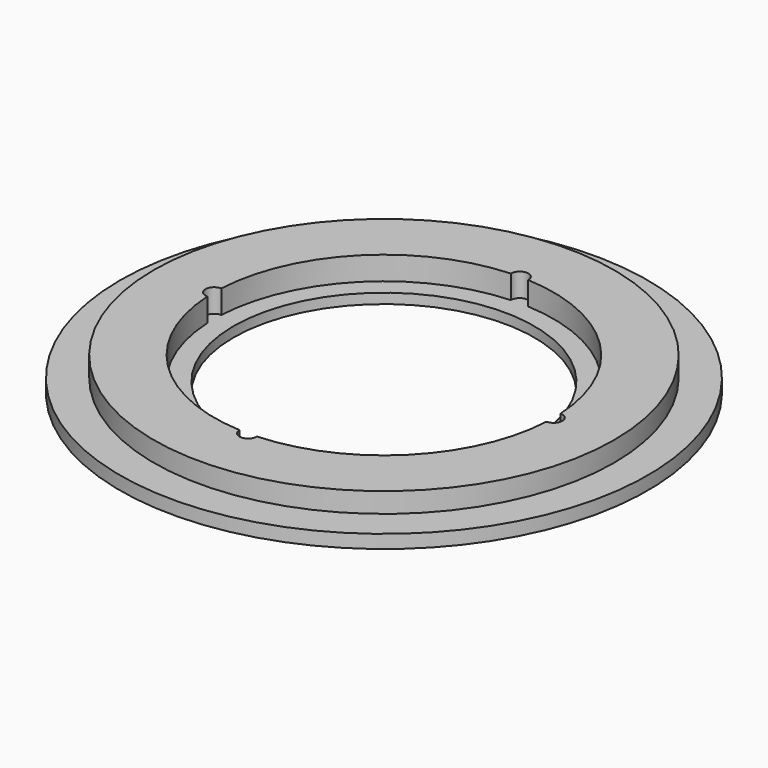
from build123d import *

# Parameters (mm, degrees)
F3_START = 1.5
F2_R     = 1.3
F3_DEPTH = 3.5


with BuildPart() as f1:
    # F0 (on Front) → F1 (revolve)
    with BuildSketch(Plane.XZ):
        Polygon((-39.5, 2), (-39.5, 0), (-22.5, 0), (-22.5, 1.5), (-25.4, 1.5), (-25.4, 5), (-34.4469576932, 5), (-34.4469576932, 2), align=None)
    revolve(axis=Axis((0, 0, 4.7885915264), (0, 0, -1)))

    # F2 (on Top) → F3 (cut)
    with BuildSketch(Plane.XY.offset(F3_START)):
        with Locations((0, 25.4)):
            Circle(F2_R)
        with Locations((-25.4, 0)):
            Circle(F2_R)
        with Locations((0, -25.4)):
            Circle(F2_R)
        with Locations((25.4, 0)):
            Circle(F2_R)
    extrude(amount=F3_DEPTH, mode=Mode.SUBTRACT)


solid = f1.part
